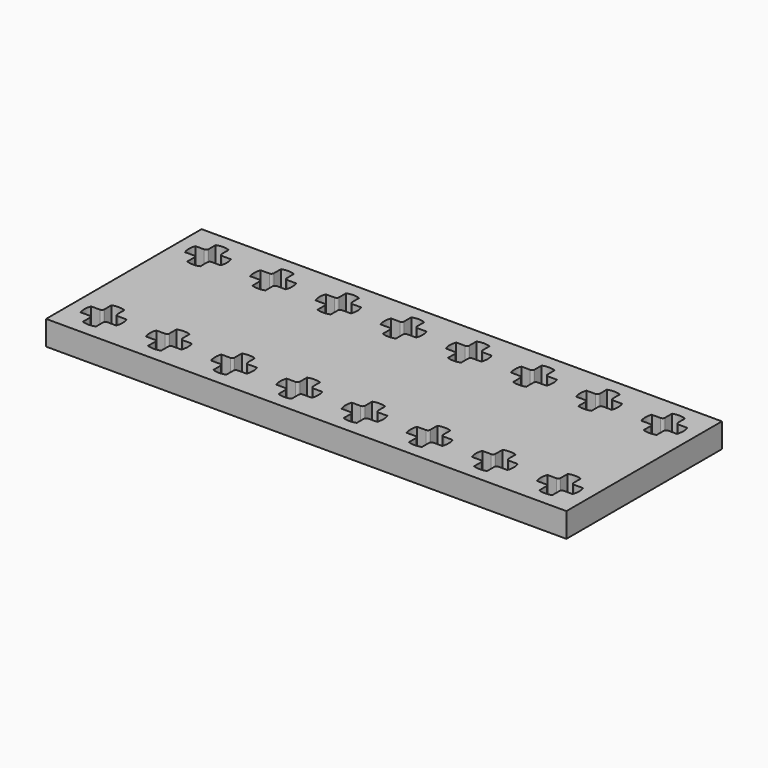
from build123d import *

# Parameters (mm, degrees)
F0_W     = 63.85
F0_H     = 23.85
F1_DEPTH = 3


with BuildPart() as f1:
    # F0 (on Top) → F1 (new body)
    with BuildSketch(Plane.XY):
        Rectangle(F0_W, F0_H)
        with BuildLine():
            Line((-27.2, -9.1), (-27.2, -10.183031))
            ThreePointArc((-27.2, -10.183031), (-28, -10.325), (-28.8, -10.183031))
            Line((-28.8, -10.183031), (-28.8, -9.1))
            ThreePointArc((-28.8, -9.1), (-28.887868, -8.887868), (-29.1, -8.8))
            Line((-29.1, -8.8), (-30.183031, -8.8))
            ThreePointArc((-30.183031, -8.8), (-30.325, -8), (-30.183031, -7.2))
            Line((-30.183031, -7.2), (-29.1, -7.2))
            ThreePointArc((-29.1, -7.2), (-28.887868, -7.112132), (-28.8, -6.9))
            Line((-28.8, -6.9), (-28.8, -5.816969))
            ThreePointArc((-28.8, -5.816969), (-28, -5.675), (-27.2, -5.816969))
            Line((-27.2, -5.816969), (-27.2, -6.9))
            ThreePointArc((-27.2, -6.9), (-27.112132, -7.112132), (-26.9, -7.2))
            Line((-26.9, -7.2), (-25.816969, -7.2))
            ThreePointArc((-25.816969, -7.2), (-25.675, -8), (-25.816969, -8.8))
            Line((-25.816969, -8.8), (-26.9, -8.8))
            ThreePointArc((-26.9, -8.8), (-27.112132, -8.887868), (-27.2, -9.1))
        make_face(mode=Mode.SUBTRACT)
        with BuildLine():
            ThreePointArc((-21.1, -7.2), (-20.887868, -7.112132), (-20.8, -6.9))
            Line((-20.8, -6.9), (-20.8, -5.816969))
            ThreePointArc((-20.8, -5.816969), (-20, -5.675), (-19.2, -5.816969))
            Line((-19.2, -5.816969), (-19.2, -6.9))
            ThreePointArc((-19.2, -6.9), (-19.112132, -7.112132), (-18.9, -7.2))
            Line((-18.9, -7.2), (-17.816969, -7.2))
            ThreePointArc((-17.816969, -7.2), (-17.675, -8), (-17.816969, -8.8))
            Line((-17.816969, -8.8), (-18.9, -8.8))
            ThreePointArc((-18.9, -8.8), (-19.112132, -8.887868), (-19.2, -9.1))
            Line((-19.2, -9.1), (-19.2, -10.183031))
            ThreePointArc((-19.2, -10.183031), (-20, -10.325), (-20.8, -10.183031))
            Line((-20.8, -10.183031), (-20.8, -9.1))
            ThreePointArc((-20.8, -9.1), (-20.887868, -8.887868), (-21.1, -8.8))
            Line((-21.1, -8.8), (-22.183031, -8.8))
            ThreePointArc((-22.183031, -8.8), (-22.325, -8), (-22.183031, -7.2))
            Line((-22.183031, -7.2), (-21.1, -7.2))
        make_face(mode=Mode.SUBTRACT)
        with BuildLine():
            Line((-11.2, -9.1), (-11.2, -10.183031))
            ThreePointArc((-11.2, -10.183031), (-12, -10.325), (-12.8, -10.183031))
            Line((-12.8, -10.183031), (-12.8, -9.1))
            ThreePointArc((-12.8, -9.1), (-12.887868, -8.887868), (-13.1, -8.8))
            Line((-13.1, -8.8), (-14.183031, -8.8))
            ThreePointArc((-14.183031, -8.8), (-14.325, -8), (-14.183031, -7.2))
            Line((-14.183031, -7.2), (-13.1, -7.2))
            ThreePointArc((-13.1, -7.2), (-12.887868, -7.112132), (-12.8, -6.9))
            Line((-12.8, -6.9), (-12.8, -5.816969))
            ThreePointArc((-12.8, -5.816969), (-12, -5.675), (-11.2, -5.816969))
            Line((-11.2, -5.816969), (-11.2, -6.9))
            ThreePointArc((-11.2, -6.9), (-11.112132, -7.112132), (-10.9, -7.2))
            Line((-10.9, -7.2), (-9.816969, -7.2))
            ThreePointArc((-9.816969, -7.2), (-9.675, -8), (-9.816969, -8.8))
            Line((-9.816969, -8.8), (-10.9, -8.8))
            ThreePointArc((-10.9, -8.8), (-11.112132, -8.887868), (-11.2, -9.1))
        make_face(mode=Mode.SUBTRACT)
        with BuildLine():
            ThreePointArc((-3.2, -6.9), (-3.112132, -7.112132), (-2.9, -7.2))
            Line((-2.9, -7.2), (-1.816969, -7.2))
            ThreePointArc((-1.816969, -7.2), (-1.675, -8), (-1.816969, -8.8))
            Line((-1.816969, -8.8), (-2.9, -8.8))
            ThreePointArc((-2.9, -8.8), (-3.112132, -8.887868), (-3.2, -9.1))
            Line((-3.2, -9.1), (-3.2, -10.183031))
            ThreePointArc((-3.2, -10.183031), (-4, -10.325), (-4.8, -10.183031))
            Line((-4.8, -10.183031), (-4.8, -9.1))
            ThreePointArc((-4.8, -9.1), (-4.887868, -8.887868), (-5.1, -8.8))
            Line((-5.1, -8.8), (-6.183031, -8.8))
            ThreePointArc((-6.183031, -8.8), (-6.325, -8), (-6.183031, -7.2))
            Line((-6.183031, -7.2), (-5.1, -7.2))
            ThreePointArc((-5.1, -7.2), (-4.887868, -7.112132), (-4.8, -6.9))
            Line((-4.8, -6.9), (-4.8, -5.816969))
            ThreePointArc((-4.8, -5.816969), (-4, -5.675), (-3.2, -5.816969))
            Line((-3.2, -5.816969), (-3.2, -6.9))
        make_face(mode=Mode.SUBTRACT)
        with BuildLine():
            ThreePointArc((4.8, -6.9), (4.887868, -7.112132), (5.1, -7.2))
            Line((5.1, -7.2), (6.183031, -7.2))
            ThreePointArc((6.183031, -7.2), (6.325, -8), (6.183031, -8.8))
            Line((6.183031, -8.8), (5.1, -8.8))
            ThreePointArc((5.1, -8.8), (4.887868, -8.887868), (4.8, -9.1))
            Line((4.8, -9.1), (4.8, -10.183031))
            ThreePointArc((4.8, -10.183031), (4, -10.325), (3.2, -10.183031))
            Line((3.2, -10.183031), (3.2, -9.1))
            ThreePointArc((3.2, -9.1), (3.112132, -8.887868), (2.9, -8.8))
            Line((2.9, -8.8), (1.816969, -8.8))
            ThreePointArc((1.816969, -8.8), (1.675, -8), (1.816969, -7.2))
            Line((1.816969, -7.2), (2.9, -7.2))
            ThreePointArc((2.9, -7.2), (3.112132, -7.112132), (3.2, -6.9))
            Line((3.2, -6.9), (3.2, -5.816969))
            ThreePointArc((3.2, -5.816969), (4, -5.675), (4.8, -5.816969))
            Line((4.8, -5.816969), (4.8, -6.9))
        make_face(mode=Mode.SUBTRACT)
        with BuildLine():
            ThreePointArc((12.8, -6.9), (12.887868, -7.112132), (13.1, -7.2))
            Line((13.1, -7.2), (14.183031, -7.2))
            ThreePointArc((14.183031, -7.2), (14.325, -8), (14.183031, -8.8))
            Line((14.183031, -8.8), (13.1, -8.8))
            ThreePointArc((13.1, -8.8), (12.887868, -8.887868), (12.8, -9.1))
            Line((12.8, -9.1), (12.8, -10.183031))
            ThreePointArc((12.8, -10.183031), (12, -10.325), (11.2, -10.183031))
            Line((11.2, -10.183031), (11.2, -9.1))
            ThreePointArc((11.2, -9.1), (11.112132, -8.887868), (10.9, -8.8))
            Line((10.9, -8.8), (9.816969, -8.8))
            ThreePointArc((9.816969, -8.8), (9.675, -8), (9.816969, -7.2))
            Line((9.816969, -7.2), (10.9, -7.2))
            ThreePointArc((10.9, -7.2), (11.112132, -7.112132), (11.2, -6.9))
            Line((11.2, -6.9), (11.2, -5.816969))
            ThreePointArc((11.2, -5.816969), (12, -5.675), (12.8, -5.816969))
            Line((12.8, -5.816969), (12.8, -6.9))
        make_face(mode=Mode.SUBTRACT)
        with BuildLine():
            ThreePointArc((20.8, -6.9), (20.887868, -7.112132), (21.1, -7.2))
            Line((21.1, -7.2), (22.183031, -7.2))
            ThreePointArc((22.183031, -7.2), (22.325, -8), (22.183031, -8.8))
            Line((22.183031, -8.8), (21.1, -8.8))
            ThreePointArc((21.1, -8.8), (20.887868, -8.887868), (20.8, -9.1))
            Line((20.8, -9.1), (20.8, -10.183031))
            ThreePointArc((20.8, -10.183031), (20, -10.325), (19.2, -10.183031))
            Line((19.2, -10.183031), (19.2, -9.1))
            ThreePointArc((19.2, -9.1), (19.112132, -8.887868), (18.9, -8.8))
            Line((18.9, -8.8), (17.816969, -8.8))
            ThreePointArc((17.816969, -8.8), (17.675, -8), (17.816969, -7.2))
            Line((17.816969, -7.2), (18.9, -7.2))
            ThreePointArc((18.9, -7.2), (19.112132, -7.112132), (19.2, -6.9))
            Line((19.2, -6.9), (19.2, -5.816969))
            ThreePointArc((19.2, -5.816969), (20, -5.675), (20.8, -5.816969))
            Line((20.8, -5.816969), (20.8, -6.9))
        make_face(mode=Mode.SUBTRACT)
        with BuildLine():
            ThreePointArc((28.8, -6.9), (28.887868, -7.112132), (29.1, -7.2))
            Line((29.1, -7.2), (30.183031, -7.2))
            ThreePointArc((30.183031, -7.2), (30.325, -8), (30.183031, -8.8))
            Line((30.183031, -8.8), (29.1, -8.8))
            ThreePointArc((29.1, -8.8), (28.887868, -8.887868), (28.8, -9.1))
            Line((28.8, -9.1), (28.8, -10.183031))
            ThreePointArc((28.8, -10.183031), (28, -10.325), (27.2, -10.183031))
            Line((27.2, -10.183031), (27.2, -9.1))
            ThreePointArc((27.2, -9.1), (27.112132, -8.887868), (26.9, -8.8))
            Line((26.9, -8.8), (25.816969, -8.8))
            ThreePointArc((25.816969, -8.8), (25.675, -8), (25.816969, -7.2))
            Line((25.816969, -7.2), (26.9, -7.2))
            ThreePointArc((26.9, -7.2), (27.112132, -7.112132), (27.2, -6.9))
            Line((27.2, -6.9), (27.2, -5.816969))
            ThreePointArc((27.2, -5.816969), (28, -5.675), (28.8, -5.816969))
            Line((28.8, -5.816969), (28.8, -6.9))
        make_face(mode=Mode.SUBTRACT)
        with BuildLine():
            ThreePointArc((-28.8, 10.183031), (-28, 10.325), (-27.2, 10.183031))
            Line((-27.2, 10.183031), (-27.2, 9.1))
            ThreePointArc((-27.2, 9.1), (-27.112132, 8.887868), (-26.9, 8.8))
            Line((-26.9, 8.8), (-25.816969, 8.8))
            ThreePointArc((-25.816969, 8.8), (-25.675, 8), (-25.816969, 7.2))
            Line((-25.816969, 7.2), (-26.9, 7.2))
            ThreePointArc((-26.9, 7.2), (-27.112132, 7.112132), (-27.2, 6.9))
            Line((-27.2, 6.9), (-27.2, 5.816969))
            ThreePointArc((-27.2, 5.816969), (-28, 5.675), (-28.8, 5.816969))
            Line((-28.8, 5.816969), (-28.8, 6.9))
            ThreePointArc((-28.8, 6.9), (-28.887868, 7.112132), (-29.1, 7.2))
            Line((-29.1, 7.2), (-30.183031, 7.2))
            ThreePointArc((-30.183031, 7.2), (-30.325, 8), (-30.183031, 8.8))
            Line((-30.183031, 8.8), (-29.1, 8.8))
            ThreePointArc((-29.1, 8.8), (-28.887868, 8.887868), (-28.8, 9.1))
            Line((-28.8, 9.1), (-28.8, 10.183031))
        make_face(mode=Mode.SUBTRACT)
        with BuildLine():
            ThreePointArc((-20.8, 10.183031), (-20, 10.325), (-19.2, 10.183031))
            Line((-19.2, 10.183031), (-19.2, 9.1))
            ThreePointArc((-19.2, 9.1), (-19.112132, 8.887868), (-18.9, 8.8))
            Line((-18.9, 8.8), (-17.816969, 8.8))
            ThreePointArc((-17.816969, 8.8), (-17.675, 8), (-17.816969, 7.2))
            Line((-17.816969, 7.2), (-18.9, 7.2))
            ThreePointArc((-18.9, 7.2), (-19.112132, 7.112132), (-19.2, 6.9))
            Line((-19.2, 6.9), (-19.2, 5.816969))
            ThreePointArc((-19.2, 5.816969), (-20, 5.675), (-20.8, 5.816969))
            Line((-20.8, 5.816969), (-20.8, 6.9))
            ThreePointArc((-20.8, 6.9), (-20.887868, 7.112132), (-21.1, 7.2))
            Line((-21.1, 7.2), (-22.183031, 7.2))
            ThreePointArc((-22.183031, 7.2), (-22.325, 8), (-22.183031, 8.8))
            Line((-22.183031, 8.8), (-21.1, 8.8))
            ThreePointArc((-21.1, 8.8), (-20.887868, 8.887868), (-20.8, 9.1))
            Line((-20.8, 9.1), (-20.8, 10.183031))
        make_face(mode=Mode.SUBTRACT)
        with BuildLine():
            ThreePointArc((-12.8, 10.183031), (-12, 10.325), (-11.2, 10.183031))
            Line((-11.2, 10.183031), (-11.2, 9.1))
            ThreePointArc((-11.2, 9.1), (-11.112132, 8.887868), (-10.9, 8.8))
            Line((-10.9, 8.8), (-9.816969, 8.8))
            ThreePointArc((-9.816969, 8.8), (-9.675, 8), (-9.816969, 7.2))
            Line((-9.816969, 7.2), (-10.9, 7.2))
            ThreePointArc((-10.9, 7.2), (-11.112132, 7.112132), (-11.2, 6.9))
            Line((-11.2, 6.9), (-11.2, 5.816969))
            ThreePointArc((-11.2, 5.816969), (-12, 5.675), (-12.8, 5.816969))
            Line((-12.8, 5.816969), (-12.8, 6.9))
            ThreePointArc((-12.8, 6.9), (-12.887868, 7.112132), (-13.1, 7.2))
            Line((-13.1, 7.2), (-14.183031, 7.2))
            ThreePointArc((-14.183031, 7.2), (-14.325, 8), (-14.183031, 8.8))
            Line((-14.183031, 8.8), (-13.1, 8.8))
            ThreePointArc((-13.1, 8.8), (-12.887868, 8.887868), (-12.8, 9.1))
            Line((-12.8, 9.1), (-12.8, 10.183031))
        make_face(mode=Mode.SUBTRACT)
        with BuildLine():
            ThreePointArc((-4.8, 10.183031), (-4, 10.325), (-3.2, 10.183031))
            Line((-3.2, 10.183031), (-3.2, 9.1))
            ThreePointArc((-3.2, 9.1), (-3.112132, 8.887868), (-2.9, 8.8))
            Line((-2.9, 8.8), (-1.816969, 8.8))
            ThreePointArc((-1.816969, 8.8), (-1.675, 8), (-1.816969, 7.2))
            Line((-1.816969, 7.2), (-2.9, 7.2))
            ThreePointArc((-2.9, 7.2), (-3.112132, 7.112132), (-3.2, 6.9))
            Line((-3.2, 6.9), (-3.2, 5.816969))
            ThreePointArc((-3.2, 5.816969), (-4, 5.675), (-4.8, 5.816969))
            Line((-4.8, 5.816969), (-4.8, 6.9))
            ThreePointArc((-4.8, 6.9), (-4.887868, 7.112132), (-5.1, 7.2))
            Line((-5.1, 7.2), (-6.183031, 7.2))
            ThreePointArc((-6.183031, 7.2), (-6.325, 8), (-6.183031, 8.8))
            Line((-6.183031, 8.8), (-5.1, 8.8))
            ThreePointArc((-5.1, 8.8), (-4.887868, 8.887868), (-4.8, 9.1))
            Line((-4.8, 9.1), (-4.8, 10.183031))
        make_face(mode=Mode.SUBTRACT)
        with BuildLine():
            ThreePointArc((3.2, 10.183031), (4, 10.325), (4.8, 10.183031))
            Line((4.8, 10.183031), (4.8, 9.1))
            ThreePointArc((4.8, 9.1), (4.887868, 8.887868), (5.1, 8.8))
            Line((5.1, 8.8), (6.183031, 8.8))
            ThreePointArc((6.183031, 8.8), (6.325, 8), (6.183031, 7.2))
            Line((6.183031, 7.2), (5.1, 7.2))
            ThreePointArc((5.1, 7.2), (4.887868, 7.112132), (4.8, 6.9))
            Line((4.8, 6.9), (4.8, 5.816969))
            ThreePointArc((4.8, 5.816969), (4, 5.675), (3.2, 5.816969))
            Line((3.2, 5.816969), (3.2, 6.9))
            ThreePointArc((3.2, 6.9), (3.112132, 7.112132), (2.9, 7.2))
            Line((2.9, 7.2), (1.816969, 7.2))
            ThreePointArc((1.816969, 7.2), (1.675, 8), (1.816969, 8.8))
            Line((1.816969, 8.8), (2.9, 8.8))
            ThreePointArc((2.9, 8.8), (3.112132, 8.887868), (3.2, 9.1))
            Line((3.2, 9.1), (3.2, 10.183031))
        make_face(mode=Mode.SUBTRACT)
        with BuildLine():
            ThreePointArc((11.2, 10.183031), (12, 10.325), (12.8, 10.183031))
            Line((12.8, 10.183031), (12.8, 9.1))
            ThreePointArc((12.8, 9.1), (12.887868, 8.887868), (13.1, 8.8))
            Line((13.1, 8.8), (14.183031, 8.8))
            ThreePointArc((14.183031, 8.8), (14.325, 8), (14.183031, 7.2))
            Line((14.183031, 7.2), (13.1, 7.2))
            ThreePointArc((13.1, 7.2), (12.887868, 7.112132), (12.8, 6.9))
            Line((12.8, 6.9), (12.8, 5.816969))
            ThreePointArc((12.8, 5.816969), (12, 5.675), (11.2, 5.816969))
            Line((11.2, 5.816969), (11.2, 6.9))
            ThreePointArc((11.2, 6.9), (11.112132, 7.112132), (10.9, 7.2))
            Line((10.9, 7.2), (9.816969, 7.2))
            ThreePointArc((9.816969, 7.2), (9.675, 8), (9.816969, 8.8))
            Line((9.816969, 8.8), (10.9, 8.8))
            ThreePointArc((10.9, 8.8), (11.112132, 8.887868), (11.2, 9.1))
            Line((11.2, 9.1), (11.2, 10.183031))
        make_face(mode=Mode.SUBTRACT)
        with BuildLine():
            ThreePointArc((19.2, 10.183031), (20, 10.325), (20.8, 10.183031))
            Line((20.8, 10.183031), (20.8, 9.1))
            ThreePointArc((20.8, 9.1), (20.887868, 8.887868), (21.1, 8.8))
            Line((21.1, 8.8), (22.183031, 8.8))
            ThreePointArc((22.183031, 8.8), (22.325, 8), (22.183031, 7.2))
            Line((22.183031, 7.2), (21.1, 7.2))
            ThreePointArc((21.1, 7.2), (20.887868, 7.112132), (20.8, 6.9))
            Line((20.8, 6.9), (20.8, 5.816969))
            ThreePointArc((20.8, 5.816969), (20, 5.675), (19.2, 5.816969))
            Line((19.2, 5.816969), (19.2, 6.9))
            ThreePointArc((19.2, 6.9), (19.112132, 7.112132), (18.9, 7.2))
            Line((18.9, 7.2), (17.816969, 7.2))
            ThreePointArc((17.816969, 7.2), (17.675, 8), (17.816969, 8.8))
            Line((17.816969, 8.8), (18.9, 8.8))
            ThreePointArc((18.9, 8.8), (19.112132, 8.887868), (19.2, 9.1))
            Line((19.2, 9.1), (19.2, 10.183031))
        make_face(mode=Mode.SUBTRACT)
        with BuildLine():
            ThreePointArc((27.2, 10.183031), (28, 10.325), (28.8, 10.183031))
            Line((28.8, 10.183031), (28.8, 9.1))
            ThreePointArc((28.8, 9.1), (28.887868, 8.887868), (29.1, 8.8))
            Line((29.1, 8.8), (30.183031, 8.8))
            ThreePointArc((30.183031, 8.8), (30.325, 8), (30.183031, 7.2))
            Line((30.183031, 7.2), (29.1, 7.2))
            ThreePointArc((29.1, 7.2), (28.887868, 7.112132), (28.8, 6.9))
            Line((28.8, 6.9), (28.8, 5.816969))
            ThreePointArc((28.8, 5.816969), (28, 5.675), (27.2, 5.816969))
            Line((27.2, 5.816969), (27.2, 6.9))
            ThreePointArc((27.2, 6.9), (27.112132, 7.112132), (26.9, 7.2))
            Line((26.9, 7.2), (25.816969, 7.2))
            ThreePointArc((25.816969, 7.2), (25.675, 8), (25.816969, 8.8))
            Line((25.816969, 8.8), (26.9, 8.8))
            ThreePointArc((26.9, 8.8), (27.112132, 8.887868), (27.2, 9.1))
            Line((27.2, 9.1), (27.2, 10.183031))
        make_face(mode=Mode.SUBTRACT)
    extrude(amount=F1_DEPTH)


solid = f1.part
